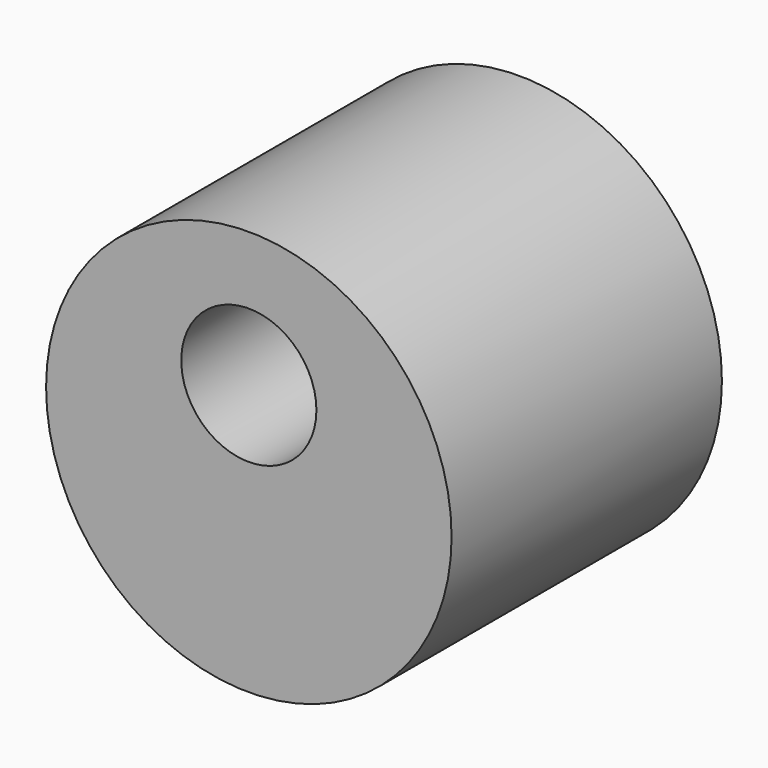
from build123d import *

# Parameters (mm, degrees)
F0_R     = 152.4
F1_DEPTH = 254
F2_DEPTH = 127


with BuildPart() as f1:
    # F0 (on Front) → F1 (new body)
    with BuildSketch(Plane.XZ):
        with Locations((0, -51.59375)):
            Circle(F0_R)
        with BuildLine():
            ThreePointArc((-28.7373556529, 45.857388475), (-14.5176501359, 48.963685501), (0, 50.00625))
            ThreePointArc((0, 50.00625), (71.8420489686, 20.2482989686), (101.6, -51.59375))
            ThreePointArc((101.6, -51.59375), (-60.8393156835, -132.9641233995), (-28.7373556529, 45.857388475))
        make_face(mode=Mode.SUBTRACT)
        with BuildLine():
            Line((-28.7373556529, 45.857388475), (-25.5163285875, 43.1329727939))
            ThreePointArc((-25.5163285875, 43.1329727939), (-13.2129194743, 48.257842828), (0, 50.00625))
            ThreePointArc((0, 50.00625), (-14.5176501359, 48.963685501), (-28.7373556529, 45.857388475))
        make_face()
        with BuildLine():
            ThreePointArc((50.8, -0.79375), (-25.3417689572, -44.8214088762), (-25.5163285875, 43.1329727939))
            Line((-25.5163285875, 43.1329727939), (-28.7373556529, 45.857388475))
            ThreePointArc((-28.7373556529, 45.857388475), (-60.8393156835, -132.9641233995), (101.6, -51.59375))
            ThreePointArc((101.6, -51.59375), (71.8420489686, 20.2482989686), (0, 50.00625))
            ThreePointArc((0, 50.00625), (35.9210244843, 35.1272744843), (50.8, -0.79375))
        make_face()
    extrude(amount=F1_DEPTH)

    # F0 (on Front) → F2 (cut)
    with BuildSketch(Plane.XZ):
        with BuildLine():
            ThreePointArc((50.8, -0.79375), (-25.3417689572, -44.8214088762), (-25.5163285875, 43.1329727939))
            Line((-25.5163285875, 43.1329727939), (-28.7373556529, 45.857388475))
            ThreePointArc((-28.7373556529, 45.857388475), (-60.8393156835, -132.9641233995), (101.6, -51.59375))
            ThreePointArc((101.6, -51.59375), (71.8420489686, 20.2482989686), (0, 50.00625))
            ThreePointArc((0, 50.00625), (35.9210244843, 35.1272744843), (50.8, -0.79375))
        make_face()
    extrude(amount=F2_DEPTH, mode=Mode.SUBTRACT)


solid = f1.part
